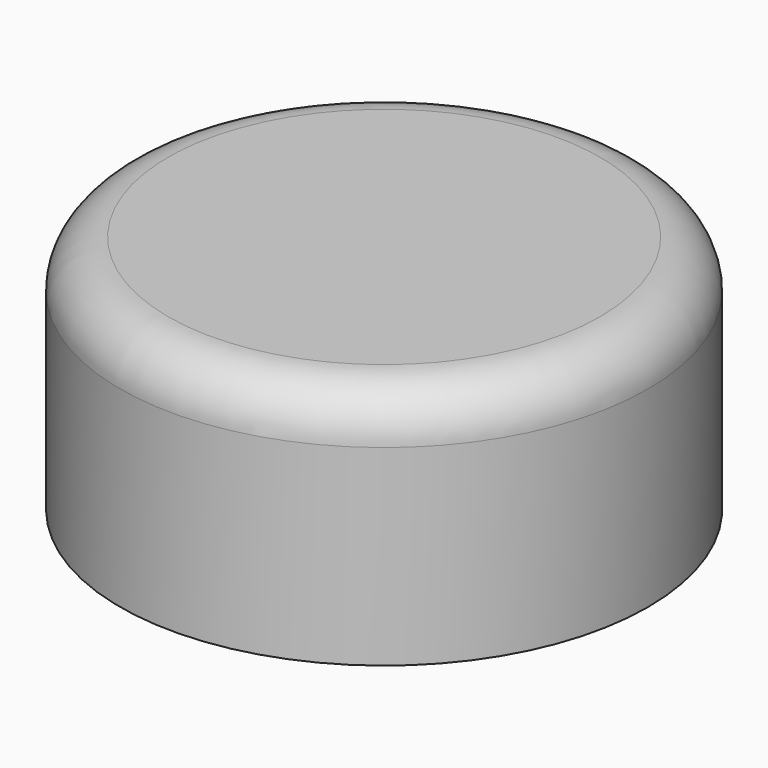
from build123d import *

# Parameters (mm, degrees)
F0_R     = 5.5
F1_DEPTH = 2.5
F2_R     = 1


with BuildPart() as f1:
    # F0 (on Top) → F1 (new body, symmetric)
    with BuildSketch(Plane.XY):
        Circle(F0_R)
    extrude(amount=F1_DEPTH, both=True)

    # F2
    f2_edges = [f1.edges().sort_by_distance(p)[0] for p in [
        (-5.5, 0, 2.5),
    ]]
    fillet(f2_edges, radius=F2_R)


solid = f1.part
